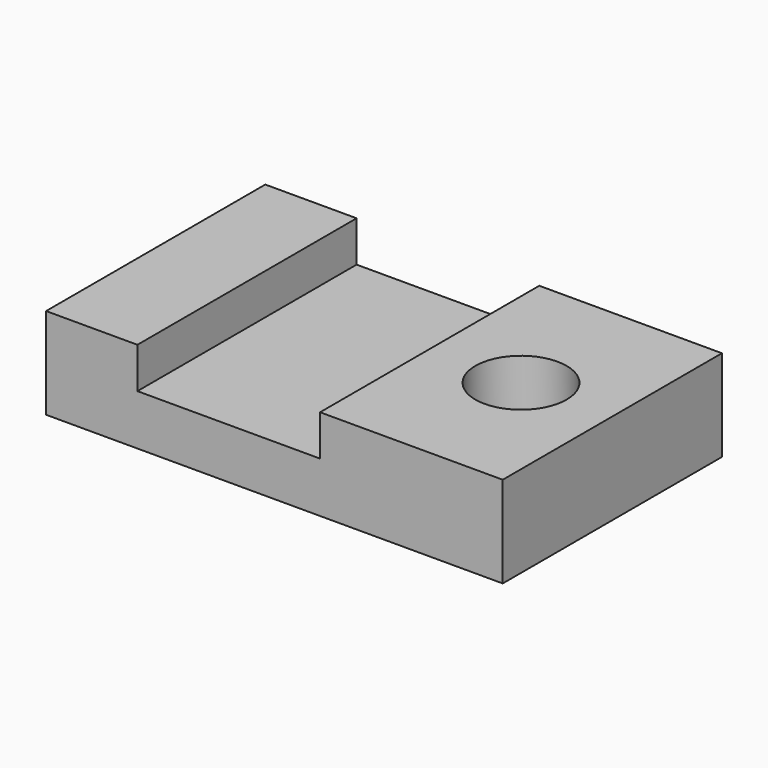
from build123d import *

# Parameters (mm, degrees)
F1_DEPTH = 76.2
F2_R     = 12.7
F3_DEPTH = 50.8
F4_DEPTH = 50.8


with BuildPart() as f1:
    # F0 (on Front) → F1 (new body)
    with BuildSketch(Plane.XZ):
        Polygon((-15.125556, 12.843926), (-40.525556, 12.843926), (-40.525556, -12.556074), (86.474444, -12.556074), (86.474444, 12.843926), (35.674444, 12.843926), (35.674444, 1.494974), (-15.125556, 1.494974), align=None)
    extrude(amount=F1_DEPTH)

    # F2 (on Top) → F3 (cut)
    with BuildSketch(Plane.XY):
        with Locations((61.074444, -38.1)):
            Circle(F2_R)
    extrude(amount=F3_DEPTH, mode=Mode.SUBTRACT)

    # F2 (on Top) → F4 (cut)
    with BuildSketch(Plane.XY):
        with Locations((61.074444, -38.1)):
            Circle(F2_R)
    extrude(amount=-F4_DEPTH, mode=Mode.SUBTRACT)


solid = f1.part
